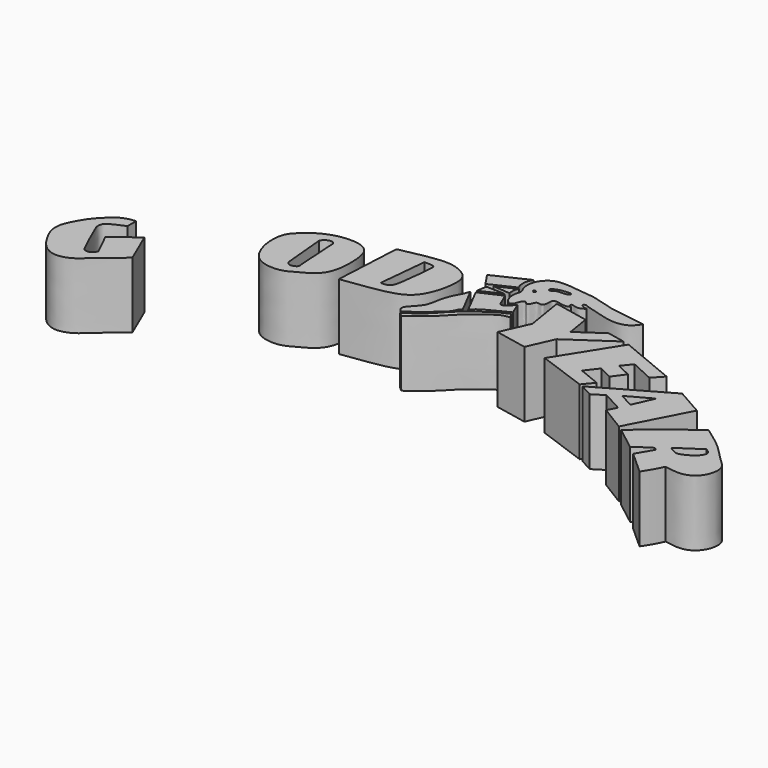
from build123d import *

# Parameters (mm, degrees)
F1_DEPTH = 25.4


with BuildPart() as f1:
    # F0 (on Top) → F1 (new body)
    with BuildSketch(Plane.XY):
        with BuildLine():
            Line((-59.8576515913, 15.4813658446), (-59.7697272897, 19.6458827704))
            add(Edge.make_bspline(
                [(-59.7697272897, 19.6458827704), (-60.8045802238, 19.6897784896), (-64.1050694296, 19.0849969587), (-66.5879847444, 17.3741884209), (-70.3066333627, 13.9831390633), (-73.2592314533, 10.0758974312), (-75.8568664861, 4.8646876114), (-76.3143573798, 2.5273009245), (-76.3386264188, -0.1308010066), (-75.0717962995, -3.6789260849), (-72.5008604249, -8.0754405282), (-69.4058962384, -11.4566076956), (-64.5262579878, -13.2317809144), (-58.8818237316, -11.0409963446), (-55.3778019727, -7.5162456198), (-51.1283326105, -3.910557249), (-47.5539763201, -1.0209620634), (-45.8099097013, 0.355010794)],
                knots=[0, 0, 0, 0, 0.0637228382, 0.1196227695, 0.1884018169, 0.2600330263, 0.3347066794, 0.3826974947, 0.4319818985, 0.4926928507, 0.5636536392, 0.6304277082, 0.6992568281, 0.7741446525, 0.8439132015, 0.9179230653, 1, 1, 1, 1], degree=3))
            Line((-45.8099097013, 0.355010794), (-51.246214658, 12.9607347772))
            Line((-51.246214658, 12.9607347772), (-60.6256835163, 5.8755846694))
            Line((-60.6256835163, 5.8755846694), (-56.410510093, -2.6936687063))
            add(Edge.make_bspline(
                [(-59.8576515913, 15.4813658446), (-60.733794174, 15.147527999), (-62.4086082569, 14.5093712239), (-64.3717405723, 13.4234410115), (-66.5489640426, 12.3952383552), (-67.1355221817, 9.7835324016), (-65.9693161309, 7.4376323585), (-64.0015059175, 2.7336730194), (-62.4502795104, -0.6749388079), (-61.0155978392, -3.3207992277), (-60.7129566927, -4.4256581223), (-58.9023622539, -5.2335102794), (-56.8936322963, -4.2060994477), (-56.5634003078, -3.1722968036), (-56.410510093, -2.6936687063)],
                knots=[0, 0, 0, 0, 0.0882605338, 0.1687168137, 0.2489048881, 0.3296621874, 0.4157487741, 0.5361183845, 0.6431148571, 0.7330881749, 0.7880728859, 0.8578399155, 0.9341829786, 1, 1, 1, 1], degree=3))
        make_face()
    extrude(amount=F1_DEPTH)


with BuildPart() as f1b:
    # F0 (on Top) → F1, piece 2 (new body)
    with BuildSketch(Plane.XY):
        with BuildLine():
            add(Edge.make_bspline(
                [(-18.2003825903, 42.6425226033), (-16.9204937698, 44.170979528), (-12.7529267037, 47.8270864244), (-6.4833370908, 50.1758944664), (-1.3534400782, 50.516559467), (2.3963191751, 50.1035767557), (6.8224775843, 47.6887214032), (7.7976928023, 39.5598098725), (7.2649118086, 32.3280206074), (4.6092245442, 27.1101253597), (-1.5429926672, 23.8885418293), (-5.8659858504, 21.3896494949), (-12.3806010343, 21.644340769), (-16.6080998499, 24.2259570493), (-19.0489288318, 28.4400510404), (-20.5274047941, 33.757100575), (-20.1892331632, 39.5171492626), (-19.1076027956, 41.5591105265), (-18.2003825903, 42.6425226033)],
                knots=[0, 0, 0, 0, 0.0717264383, 0.1411449415, 0.2003434596, 0.2512415794, 0.3067971668, 0.3807165439, 0.4528443412, 0.5151462487, 0.5836124028, 0.6433200838, 0.7089709959, 0.7668280207, 0.8241205242, 0.8868933229, 0.9491583386, 1, 1, 1, 1], degree=3))
        make_face()
        with BuildLine():
            Line((-7.3503432795, 27.4524707347), (-8.9003490284, 44.1925302148))
            add(Edge.make_bspline(
                [(-8.9003490284, 44.1925302148), (-8.6779577379, 44.5394247411), (-8.1982655581, 45.2876671346), (-6.7271989258, 46.1778837206), (-5.0778121695, 46.27073938), (-4.6201466145, 45.5420560985), (-4.4053327292, 45.200034976)],
                knots=[0, 0, 0, 0, 0.2389293944, 0.5153644363, 0.7725272368, 1, 1, 1, 1], degree=3))
            Line((-4.4053327292, 45.200034976), (-3.3978291322, 28.7699755281))
            add(Edge.make_bspline(
                [(-7.3503432795, 27.4524707347), (-7.0939624858, 27.1124793032), (-6.583046577, 26.4107730559), (-5.6218970367, 26.2400945205), (-4.6400609016, 26.3860833576), (-3.0490328442, 27.065792265), (-3.3279622707, 28.4530031208), (-3.3978291322, 28.7699755281)],
                knots=[0, 0, 0, 0, 0.2037382216, 0.3742470679, 0.5573825335, 0.7798908956, 1, 1, 1, 1], degree=3))
        make_face(mode=Mode.SUBTRACT)
    extrude(amount=F1_DEPTH)


with BuildPart() as f1c:
    # F0 (on Top) → F1, piece 3 (new body)
    with BuildSketch(Plane.XY):
        with BuildLine():
            Line((12.7525208518, 54.3326698244), (11.3983321935, 28.2645393163))
            add(Edge.make_bspline(
                [(12.7525208518, 54.3326698244), (15.084229791, 54.844192418), (19.9155787279, 55.9040777654), (28.5041466481, 57.3411935891), (33.999229324, 56.8064697492), (40.7592818345, 53.248331949), (40.4442035573, 45.35073814), (38.5319249195, 38.3692254582), (34.9581280804, 33.1687967441), (28.7249282749, 30.8938469888), (20.9428367831, 29.5458318164), (14.6868118558, 28.705997989), (11.3983321935, 28.2645393163)],
                knots=[0, 0, 0, 0, 0.1015327627, 0.2103779752, 0.2986976534, 0.3941567241, 0.4936564746, 0.5948986489, 0.6855242664, 0.7789067121, 0.8837823076, 1, 1, 1, 1], degree=3))
        make_face()
        with BuildLine():
            Line((22.7396637201, 34.1891162097), (24.6016718447, 52.9784820974))
            add(Edge.make_bspline(
                [(24.6016718447, 52.9784820974), (25.4940884288, 53.0133537319), (27.0450112929, 53.0739568361), (28.8073138389, 52.6769977468), (28.660605516, 49.7947580422), (27.7455384607, 41.2048994249), (26.9521515105, 36.194872154), (26.2067267485, 35.1258378592), (25.1746654824, 34.246291623), (23.6414052934, 34.210289684), (22.7396637201, 34.1891162097)],
                knots=[0, 0, 0, 0, 0.1199005303, 0.2083740679, 0.3239169553, 0.5518629203, 0.7204737186, 0.7999341476, 0.8823371938, 1, 1, 1, 1], degree=3))
        make_face(mode=Mode.SUBTRACT)
    extrude(amount=F1_DEPTH)


with BuildPart() as f1d:
    # F0 (on Top) → F1, piece 4 (new body)
    with BuildSketch(Plane.XY):
        with BuildLine():
            add(Edge.make_bspline(
                [(47.4611185491, 46.5704239905), (47.1883681944, 45.7661829908), (46.618278384, 44.0851967291), (44.9579933261, 41.5015090534), (43.2720348949, 36.994364675), (42.9795043086, 31.9406896146), (39.8928555578, 28.4983284629), (37.9065483848, 26.5196279564), (37.7118312693, 24.7299683213), (38.622861164, 23.9911137668), (39.093349129, 23.6095432192)],
                knots=[0, 0, 0, 0, 0.1137294592, 0.237711903, 0.3932759555, 0.5529741184, 0.7037569044, 0.8215066408, 0.9078197348, 1, 1, 1, 1], degree=3))
            add(Edge.make_bspline(
                [(39.093349129, 23.6095432192), (40.8339068544, 24.6422529475), (44.2488800212, 26.7059413575), (48.5062910418, 31.0983288245), (51.0283535068, 33.0003045464), (51.6061245208, 34.9118668219), (52.3084728213, 35.8278718381), (52.9228523374, 36.0042825341)],
                knots=[0, 0, 0, 0, 0.2649694404, 0.5299849853, 0.7164164586, 0.8622645189, 1, 1, 1, 1], degree=3))
            Line((52.9228523374, 36.0042825341), (47.4611185491, 46.5704239905))
        make_face()
    extrude(amount=F1_DEPTH)


with BuildPart() as f1e:
    # F0 (on Top) → F1, piece 5 (new body)
    with BuildSketch(Plane.XY):
        with BuildLine():
            Line((39.5255573094, 22.6894263178), (40.9611612558, 21.3101189584))
            add(Edge.make_bspline(
                [(67.1933442354, 41.3051396608), (66.817956062, 40.9412733409), (65.9975354952, 40.8564904968), (64.3670388994, 40.5819954974), (62.2605813926, 39.366001959), (57.8788876114, 36.0032813588), (53.9249378303, 32.8830617617), (49.765239653, 28.0970138445), (46.9484373656, 26.062712689), (44.2069332071, 23.4779773119), (42.0654672823, 22.0477216703), (40.9611612558, 21.3101189584)],
                knots=[0, 0, 0, 0, 0.0673612925, 0.1410234895, 0.23291277, 0.37138731, 0.5093737325, 0.6571656042, 0.7685249934, 0.8820382629, 1, 1, 1, 1], degree=3))
            Line((67.1933442354, 41.3051396608), (65.8802688122, 43.0816523731))
            add(Edge.make_bspline(
                [(65.8802688122, 43.0816523731), (65.4738911751, 42.6141659879), (64.2980226756, 42.2689192056), (62.3629458758, 41.2180434659), (59.5710685424, 39.5270009592), (56.8492331264, 37.511697424), (53.7337516352, 35.4689851949), (48.8948431952, 30.5096404187), (48.0700858454, 29.3364795266), (46.0087057506, 27.510983353), (43.9556814261, 25.3020283906), (41.4074799413, 24.159348702), (40.1339707471, 23.1646489411), (39.5255573094, 22.6894263178)],
                knots=[0, 0, 0, 0, 0.0701422244, 0.1488220357, 0.2450188714, 0.3413614689, 0.4482701294, 0.5858524112, 0.6512653109, 0.7365394688, 0.8302425339, 0.9183482831, 1, 1, 1, 1], degree=3))
        make_face()
    extrude(amount=F1_DEPTH)


with BuildPart() as f1f:
    # F0 (on Top) → F1, piece 6 (new body)
    with BuildSketch(Plane.XY):
        with BuildLine():
            Line((44.5073880255, 58.2756400108), (47.8146784008, 53.3759519458))
            Line((47.8146784008, 53.3759519458), (57.0628382266, 57.7856712043))
            add(Edge.make_bspline(
                [(57.4303157628, 64.4002482295), (57.061574373, 63.6517070239), (56.3059406258, 62.1177783366), (56.349761936, 59.1827418515), (56.8509113599, 58.2008817627), (57.0628382266, 57.7856712043)],
                knots=[0, 0, 0, 0, 0.3548566186, 0.7271807392, 1, 1, 1, 1], degree=3))
            Line((57.4303157628, 64.4002482295), (44.5073880255, 58.2756400108))
        make_face()
    extrude(amount=F1_DEPTH)


with BuildPart() as f1g:
    # F0 (on Top) → F1, piece 7 (new body)
    with BuildSketch(Plane.XY):
        with BuildLine():
            Line((57.6870932768, 57.0870762274), (50.6319962442, 53.743429482))
            Line((50.6319962442, 53.743429482), (57.3078244925, 53.1922131777))
            add(Edge.make_bspline(
                [(57.6870932768, 57.0870762274), (57.3774953202, 56.4701031861), (57.0925210563, 55.9313056547), (57.0255017822, 53.8517731969), (57.3078244925, 53.1922131777)],
                knots=[0, 0, 0, 0, 0.4321300752, 1, 1, 1, 1], degree=3))
        make_face()
    extrude(amount=F1_DEPTH)


with BuildPart() as f1h:
    # F0 (on Top) → F1, piece 8 (new body)
    with BuildSketch(Plane.XY):
        Polygon((49.1715855896, 52.1896518767), (48.5492832959, 48.3175516129), (56.2934875488, 51.9130751491), align=None)
    extrude(amount=F1_DEPTH)


with BuildPart() as f1i:
    # F0 (on Top) → F1, piece 9 (new body)
    with BuildSketch(Plane.XY):
        with BuildLine():
            Line((57.1870356798, 51.0750189424), (48.9353847441, 47.2896913111))
            Line((48.9353847441, 47.2896913111), (54.3052169743, 36.9013404429))
            add(Edge.make_bspline(
                [(54.3052169743, 36.9013404429), (54.6527955237, 37.4481801275), (55.5665217531, 38.8857307587), (60.8387193304, 41.5773857016), (64.160292669, 43.266199483), (65.8246055245, 44.1123992205)],
                knots=[0, 0, 0, 0, 0.2344886381, 0.6164316513, 1, 1, 1, 1], degree=3))
            Line((65.8246055245, 44.1123992205), (63.8290271163, 48.8632693887))
            add(Edge.make_bspline(
                [(58.3586542298, 48.5210029506), (58.619022585, 47.9508405373), (59.0905102195, 46.9183628107), (59.4858424904, 45.5038257468), (61.511770523, 45.7847379627), (62.9430487159, 47.6862256567), (63.8290271163, 48.8632693887)],
                knots=[0, 0, 0, 0, 0.2391394777, 0.4330453544, 0.6490482615, 1, 1, 1, 1], degree=3))
            Line((58.3586542298, 48.5210029506), (57.1870356798, 51.0750189424))
        make_face()
    extrude(amount=F1_DEPTH)


with BuildPart() as f1j:
    # F0 (on Top) → F1, piece 10 (new body)
    with BuildSketch(Plane.XY):
        with BuildLine():
            add(Edge.make_bspline(
                [(61.1841715872, 48.1443591416), (60.6785026779, 48.4256529876), (59.4081893871, 49.132303732), (58.3073678009, 53.6202581353), (59.8985650487, 56.2258777158), (57.9904385998, 58.3950181819), (58.0690319928, 62.9281263609), (60.1067823682, 66.1711613185), (63.2449554438, 68.2965667144), (68.1416123226, 68.35588881), (74.0460392304, 67.5177123121), (78.8871887994, 67.2818006693), (86.8733807493, 64.455961808), (91.4193192634, 64.0857610071), (97.0888279947, 62.9790434965), (99.9799595649, 62.6026358557), (101.3297140598, 62.4269060791)],
                knots=[0, 0, 0, 0, 0.0474275947, 0.1191449638, 0.1760499798, 0.2301918463, 0.3019653542, 0.3690272639, 0.4339457896, 0.5098370404, 0.5937313402, 0.671590452, 0.7706198326, 0.8464785951, 0.9283269539, 1, 1, 1, 1], degree=3))
            add(Edge.make_bspline(
                [(77.1762132645, 57.8498728573), (76.945348976, 57.6387731929), (76.3922923865, 57.1330645191), (74.3193610384, 57.2360541512), (72.819584493, 57.6342589678), (70.0394718857, 58.0012262715), (70.4162085582, 54.9363191513), (69.6562681654, 52.9468536057), (67.2264983108, 54.1328738825), (66.6635092422, 51.6380544342), (65.5597146824, 50.5259288781), (64.3271060541, 52.5808406744), (62.803024827, 50.3240358121), (62.6984246744, 48.6027882227), (61.5594610572, 47.9248166084), (61.1841715872, 48.1443591416)],
                knots=[0, 0, 0, 0, 0.0582446713, 0.1395304503, 0.2179972792, 0.3019853158, 0.3957395829, 0.4719965132, 0.5512460255, 0.6369041427, 0.6989927512, 0.7707137084, 0.8526797284, 0.9336902798, 1, 1, 1, 1], degree=3))
            add(Edge.make_bspline(
                [(81.7532464862, 59.7248002887), (81.1340261679, 59.2919104013), (79.9361332186, 58.454477054), (78.1174972161, 58.6008153917), (76.2817821261, 59.3398327738), (76.2653534607, 58.0626939459), (76.863491505, 57.9229398486), (77.1762132645, 57.8498728573)],
                knots=[0, 0, 0, 0, 0.2500494739, 0.4837252475, 0.6968100338, 0.841484586, 1, 1, 1, 1], degree=3))
            add(Edge.make_bspline(
                [(101.3297140598, 62.4269060791), (100.4803591825, 61.2600389314), (98.7525638802, 58.8863461087), (94.02335087, 57.8524020822), (88.8677782379, 58.7484435083), (84.3124633813, 60.3405446083), (81.2010501457, 60.8895861386), (79.9793361223, 61.8542118018), (78.8353808302, 60.8996339635), (79.7794602314, 60.3588690958), (80.6174155923, 59.8026932976), (81.3714882498, 59.7509805043), (81.7532464862, 59.7248002887)],
                knots=[0, 0, 0, 0, 0.1319923658, 0.2685047153, 0.4163547676, 0.5592449775, 0.6722797843, 0.7467888535, 0.8090971181, 0.865877974, 0.9320991318, 1, 1, 1, 1], degree=3))
        make_face()
        with BuildLine():
            add(Edge.make_bspline(
                [(61.7413260043, 59.2402368784), (61.878849696, 59.4401277087), (62.88372522, 59.4808985236), (62.8641334806, 58.2376565631), (61.9451955199, 58.2095416068), (62.5440735531, 59.0382231391), (61.8177002802, 58.6391167792), (61.6434803351, 59.0980180955), (61.7413260043, 59.2402368784)],
                knots=[0, 0, 0, 0, 0.2053910496, 0.4082314369, 0.5571352489, 0.7122141461, 0.8538679086, 1, 1, 1, 1], degree=3))
        make_face(mode=Mode.SUBTRACT)
        with BuildLine():
            add(Edge.make_bspline(
                [(65.2149543166, 62.8919973969), (65.4377127276, 63.2452265339), (66.3997839737, 63.8775592095), (68.4774955173, 64.4048133415), (70.1432815318, 64.5176138063), (72.1741976269, 64.8289998917), (72.0749182349, 63.1923518273), (69.2150530548, 63.3452821862), (66.8579153592, 62.9954903491), (66.169945185, 62.055795611), (64.9508074402, 62.0858277489), (65.0666797726, 62.6568777038), (65.2149543166, 62.8919973969)],
                knots=[0, 0, 0, 0, 0.0993961704, 0.2192034994, 0.3312378084, 0.4367202821, 0.5113753084, 0.6441329949, 0.7720836434, 0.8572053964, 0.9338389882, 1, 1, 1, 1], degree=3))
        make_face(mode=Mode.SUBTRACT)
    extrude(amount=F1_DEPTH)


with BuildPart() as f1k:
    # F0 (on Top) → F1, piece 11 (new body)
    with BuildSketch(Plane.XY):
        Polygon((85.8593930934, 53.9964003893), (72.6589486003, 56.6978864372), (75.0577375293, 41.9704541564), (70.233199125, 31.2080310462), (82.5425234041, 28.6889137683), (86.9958773255, 38.6233106256), (103.6758124828, 50.0593855977), (96.8053135668, 51.4654410509), (87.3297917487, 44.9688463765), align=None)
    extrude(amount=F1_DEPTH)


with BuildPart() as f1l:
    # F0 (on Top) → F1, piece 12 (new body)
    with BuildSketch(Plane.XY):
        Polygon((106.0950532556, 49.4171790779), (91.9072031975, 26.8217157573), (110.8243390918, 19.9905280024), (114.1523495317, 24.0191761404), (105.7447344065, 27.4347700179), (109.423071146, 32.1640521288), (114.6778315306, 29.5366737992), (118.0934235454, 34.1783761978), (112.4883443117, 36.8057563901), (115.553624928, 40.571667254), (124.4867146015, 36.4554412663), (128.0774623156, 40.3089299798), align=None)
    extrude(amount=F1_DEPTH)


with BuildPart() as f1m:
    # F0 (on Top) → F1, piece 13 (new body)
    with BuildSketch(Plane.XY):
        Polygon((138.6485427177, 34.5917081271), (112.28715922, 19.5280665342), (117.193043232, 16.8697610497), (121.5187236667, 19.5865482092), (129.3333470821, 15.3521113098), (127.5519877672, 11.8456501514), (137.1622085571, 5.949602928), (149.0177959204, 28.703821823), align=None)
        Polygon((131.0436673427, 19.1397599902), (125.4850984395, 22.1517297321), (134.5636219866, 27.1164040185), align=None, mode=Mode.SUBTRACT)
    extrude(amount=F1_DEPTH)


with BuildPart() as f1n:
    # F0 (on Top) → F1, piece 14 (new body)
    with BuildSketch(Plane.XY):
        with BuildLine():
            add(Edge.make_bspline(
                [(139.1377300024, 4.5717395842), (141.0228913128, 6.2867330027), (145.0810185058, 9.9785451513), (153.5829103112, 16.4761235488), (157.8273316012, 19.5326500687), (159.7693562508, 20.9311563522)],
                knots=[0, 0, 0, 0, 0.3200081187, 0.6888713667, 1, 1, 1, 1], degree=3))
            add(Edge.make_bspline(
                [(139.1377300024, 4.5717395842), (140.54371982, 3.5182907643), (143.448535939, 1.3418346659), (146.5848664156, -1.1328037122), (148.2031494379, -2.4096670095)],
                knots=[0, 0, 0, 0, 0.4840202477, 1, 1, 1, 1], degree=3))
            add(Edge.make_bspline(
                [(148.2031494379, -2.4096670095), (148.9543882351, -1.9706058587), (150.7730135314, -0.1834718923), (153.0440913547, 0.8676554984), (154.350951314, 1.862536883)],
                knots=[0, 0, 0, 0, 0.4622788981, 1, 1, 1, 1], degree=3))
            Line((154.350951314, 1.862536883), (155.2996635437, 1.0372925317))
            Line((155.2996635437, 1.0372925317), (151.6459286213, -5.2711139433))
            Line((151.6459286213, -5.2711139433), (160.3809595108, -13.1081473082))
            add(Edge.make_bspline(
                [(164.5625680685, -5.7440702803), (163.969079173, -6.9415107601), (162.8056524906, -9.4022829619), (161.0742500222, -11.9806865433), (160.3809595108, -13.1081473082)],
                knots=[0, 0, 0, 0, 0.4919382882, 1, 1, 1, 1], degree=3))
            add(Edge.make_bspline(
                [(159.7693562508, 20.9311563522), (162.7594804938, 18.8504205715), (168.5145070815, 14.8456740239), (174.6936146061, 7.8053681236), (179.0341427927, 4.3107529403), (177.7572619368, -2.9855508835), (172.1691024256, -7.1354983652), (167.1745514839, -6.2218683038), (164.5625680685, -5.7440702803)],
                knots=[0, 0, 0, 0, 0.20157016, 0.3879576686, 0.5253549186, 0.679361478, 0.8323167565, 1, 1, 1, 1], degree=3))
        make_face()
        with BuildLine():
            add(Edge.make_bspline(
                [(166.9937521219, 10.8223408461), (167.8370439901, 10.3143362251), (169.5692429009, 9.2708480993), (168.0187545911, 6.0115157632), (164.1138738947, 3.6864654316), (161.2466730144, 2.7610672528), (159.2357898353, 4.1778752877), (158.1656187773, 4.9318857491)],
                knots=[0, 0, 0, 0, 0.1783232322, 0.3662922889, 0.605311793, 0.7899510521, 1, 1, 1, 1], degree=3))
            Line((158.1656187773, 4.9318857491), (166.9937521219, 10.8223408461))
        make_face(mode=Mode.SUBTRACT)
    extrude(amount=F1_DEPTH)


solid = Compound([f1.part, f1b.part, f1c.part, f1d.part, f1e.part, f1f.part, f1g.part, f1h.part, f1i.part, f1j.part, f1k.part, f1l.part, f1m.part, f1n.part])
